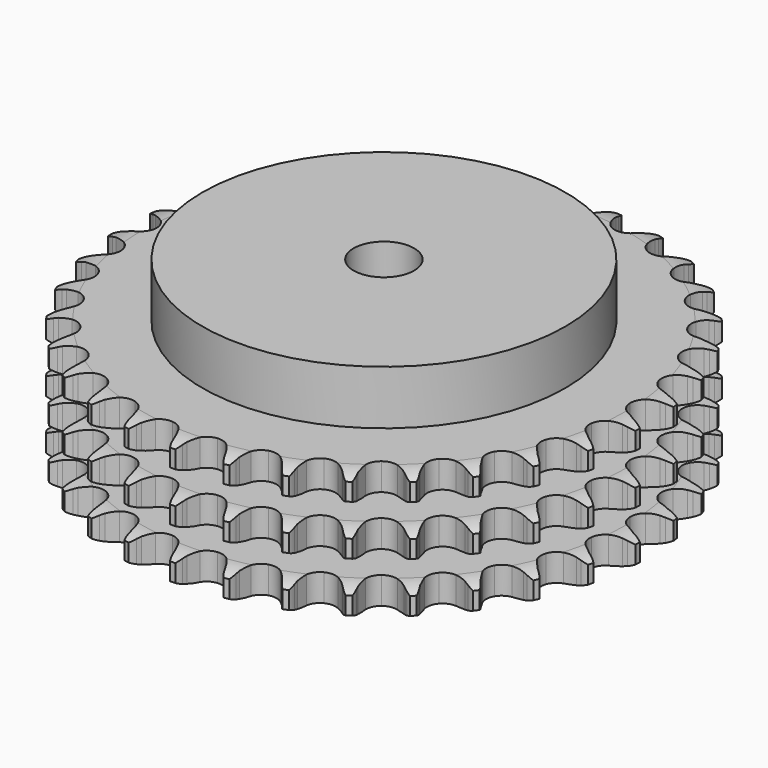
from build123d import *

# Parameters (mm, degrees)
PAD_DEPTH         = 42.1
SKETCH001_R       = 60
PAD001_DEPTH      = 60
SKETCH002_R       = 10
POCKET_DEPTH      = 0.001
POCKET_DEPTH_BACK = 60.001


with BuildPart() as part:
    # Sprocket → Pad (new body)
    with BuildSketch(Plane.XY):
        with BuildLine():
            ThreePointArc((-8.411611, 88.090371), (-7.2457, 86.680093), (-6.418665, 85.047841))
            Line((-6.418665, 85.047841), (-5.923016, 83.723235))
            ThreePointArc((-5.923016, 83.723235), (-5.137952, 82.007787), (-4.117584, 80.420986))
            ThreePointArc((-4.117584, 80.420986), (-2.302319, 78.903923), (0, 78.35987))
            ThreePointArc((0, 78.35987), (2.302319, 78.903923), (4.117584, 80.420986))
            ThreePointArc((4.117584, 80.420986), (5.137952, 82.007787), (5.923016, 83.723235))
            Line((5.923016, 83.723235), (6.418665, 85.047841))
            ThreePointArc((6.418665, 85.047841), (7.2457, 86.680093), (8.411611, 88.090371))
            ThreePointArc((8.411611, 88.090371), (9.289555, 86.484928), (9.792738, 84.725656))
            Line((9.792738, 84.725656), (10.028747, 83.331185))
            ThreePointArc((10.028747, 83.331185), (10.474973, 81.498163), (11.176598, 79.746932))
            ThreePointArc((11.176598, 79.746932), (12.671952, 77.913743), (14.829703, 76.943806))
            ThreePointArc((14.829703, 76.943806), (17.193379, 77.042309), (19.262945, 78.188416))
            Line((19.262945, 78.188416), (21.660706, 81.089309))
            ThreePointArc((21.660706, 81.089309), (22.013306, 81.702571), (22.398081, 82.296175))
            ThreePointArc((22.398081, 82.296175), (23.519076, 83.742413), (24.930814, 84.906556))
            ThreePointArc((24.930814, 84.906556), (25.489061, 83.163973), (25.650206, 81.341265))
            Line((25.650206, 81.341265), (25.618045, 79.927329))
            ThreePointArc((25.618045, 79.927329), (25.709306, 78.042983), (26.066828, 76.190616))
            ThreePointArc((26.066828, 76.190616), (27.188226, 74.107557), (29.123422, 72.746791))
            ThreePointArc((29.123422, 72.746791), (31.463025, 72.396186), (33.712094, 73.129913))
            Line((33.712094, 73.129913), (36.615521, 75.524604))
            ThreePointArc((36.615521, 75.524604), (37.07781, 76.060054), (37.567972, 76.570111))
            ThreePointArc((37.567972, 76.570111), (38.942411, 77.778064), (40.548953, 78.653996))
            ThreePointArc((40.548953, 78.653996), (40.767326, 76.837255), (40.580609, 75.016989))
            Line((40.580609, 75.016989), (40.28144, 73.634692))
            ThreePointArc((40.28144, 73.634692), (40.014437, 71.767127), (40.014936, 69.880572))
            ThreePointArc((40.014936, 69.880572), (40.721847, 67.622932), (42.364544, 65.920518))
            ThreePointArc((42.364544, 65.920518), (44.595515, 65.133476), (46.942799, 65.428305))
            Line((46.942799, 65.428305), (50.246957, 67.230243))
            ThreePointArc((50.246957, 67.230243), (50.802226, 67.668528), (51.380059, 68.076604))
            ThreePointArc((51.380059, 68.076604), (52.958267, 69.002613), (54.701547, 69.558676))
            ThreePointArc((54.701547, 69.558676), (54.572153, 67.733439), (54.044323, 65.981404))
            Line((54.044323, 65.981404), (53.488959, 64.680704))
            ThreePointArc((53.488959, 64.680704), (52.873342, 62.897419), (52.516799, 61.044863))
            ThreePointArc((52.516799, 61.044863), (52.783674, 58.694237), (54.074502, 56.711705))
            ThreePointArc((54.074502, 56.711705), (56.116208, 55.516673), (58.47687, 55.361947))
            Line((58.47687, 55.361947), (62.062336, 56.506006))
            ThreePointArc((62.062336, 56.506006), (62.690516, 56.831285), (63.335137, 57.122631))
            ThreePointArc((63.335137, 57.122631), (65.060072, 57.733228), (66.877085, 57.949324))
            ThreePointArc((66.877085, 57.949324), (66.404601, 56.18156), (65.554735, 54.561078))
            Line((65.554735, 54.561078), (64.763247, 53.388988))
            ThreePointArc((64.763247, 53.388988), (63.821266, 51.754435), (63.120568, 50.002833))
            ThreePointArc((63.120568, 50.002833), (62.937762, 47.644179), (63.830066, 45.453184))
            ThreePointArc((63.830066, 45.453184), (65.608714, 43.893352), (67.897434, 43.294664))
            Line((67.897434, 43.294664), (71.63462, 43.739494))
            ThreePointArc((71.63462, 43.739494), (72.313008, 43.940012), (73.001117, 44.104097))
            ThreePointArc((73.001117, 44.104097), (74.810437, 44.377214), (76.635511, 44.245533))
            ThreePointArc((76.635511, 44.245533), (75.837013, 42.599132), (74.695827, 41.168773))
            Line((74.695827, 41.168773), (73.696823, 40.167654))
            ThreePointArc((73.696823, 40.167654), (72.462524, 38.740911), (71.442996, 37.153571))
            ThreePointArc((71.442996, 37.153571), (70.817115, 34.872137), (71.278645, 32.551867))
            ThreePointArc((71.278645, 32.551867), (72.729951, 30.683611), (74.864008, 29.662599))
            Line((74.864008, 29.662599), (78.617843, 29.392124))
            ThreePointArc((78.617843, 29.392124), (79.32192, 29.460632), (80.028647, 29.491527))
            ThreePointArc((80.028647, 29.491527), (81.856958, 29.417292), (83.624129, 28.942593))
            ThreePointArc((83.624129, 28.942593), (82.528479, 27.477061), (81.137218, 26.288522))
            Line((81.137218, 26.288522), (79.966804, 25.494556))
            ThreePointArc((79.966804, 25.494556), (78.484798, 24.32719), (77.183287, 22.961482))
            ThreePointArc((77.183287, 22.961482), (76.136953, 20.839725), (76.151029, 18.47404))
            ThreePointArc((76.151029, 18.47404), (77.222537, 16.364884), (79.124802, 14.95845))
            Line((79.124802, 14.95845), (82.759612, 13.982445))
            ThreePointArc((82.759612, 13.982445), (83.463931, 13.916467), (84.163733, 13.813055))
            ThreePointArc((84.163733, 13.813055), (85.944955, 13.394152), (87.590354, 12.593592))
            ThreePointArc((87.590354, 12.593592), (86.23715, 11.361898), (84.646098, 10.458134))
            Line((84.646098, 10.458134), (83.346576, 9.900019))
            ThreePointArc((83.346576, 9.900019), (81.670426, 9.03422), (80.133974, 7.939505))
            ThreePointArc((80.133974, 7.939505), (78.705003, 6.054111), (78.271115, 3.728513))
            ThreePointArc((78.271115, 3.728513), (78.9241, 1.454688), (80.525819, -0.286335))
            Line((80.525819, -0.286335), (83.910233, -1.932596))
            ThreePointArc((83.910233, -1.932596), (84.589338, -2.130674), (85.256923, -2.364656))
            ThreePointArc((85.256923, -2.364656), (86.926678, -3.113088), (88.390835, -4.210574))
            ThreePointArc((88.390835, -4.210574), (86.828985, -5.163915), (85.095648, -5.750237))
            Line((85.095648, -5.750237), (83.713986, -6.05233))
            ThreePointArc((83.713986, -6.05233), (81.904273, -6.58527), (80.188409, -7.369427))
            ThreePointArc((80.188409, -7.369427), (78.428449, -8.950314), (77.56228, -11.151772))
            ThreePointArc((77.56228, -11.151772), (77.77314, -13.508084), (79.016423, -15.520772))
            Line((79.016423, -15.520772), (82.02812, -17.777787))
            ThreePointArc((82.02812, -17.777787), (82.657465, -18.100807), (83.268705, -18.456902))
            ThreePointArc((83.268705, -18.456902), (84.766644, -19.507812), (85.996641, -20.862559))
            ThreePointArc((85.996641, -20.862559), (84.282595, -21.503089), (82.469619, -21.75078))
            Line((82.469619, -21.75078), (81.055754, -21.785933))
            ThreePointArc((81.055754, -21.785933), (79.177885, -21.966751), (77.344627, -22.412008))
            ThreePointArc((77.344627, -22.412008), (75.317286, -23.631252), (74.050142, -25.629003))
            ThreePointArc((74.050142, -25.629003), (73.811257, -27.982639), (74.651168, -30.194248))
            Line((74.651168, -30.194248), (77.181297, -32.980443))
            ThreePointArc((77.181297, -32.980443), (77.738137, -33.41673), (78.270939, -33.882068))
            ThreePointArc((78.270939, -33.882068), (79.542923, -35.197474), (80.494304, -36.760517))
            ThreePointArc((80.494304, -36.760517), (78.690012, -37.065087), (76.862923, -36.965193))
            Line((76.862923, -36.965193), (75.467956, -36.732135))
            ThreePointArc((75.467956, -36.732135), (73.589803, -36.554296), (71.705409, -36.644561))
            ThreePointArc((71.705409, -36.644561), (69.483961, -37.458095), (67.861638, -39.179935))
            ThreePointArc((67.861638, -39.179935), (67.181642, -41.445828), (67.587825, -43.776425))
            Line((67.587825, -43.776425), (69.54494, -46.9911))
            ThreePointArc((69.54494, -46.9911), (70.00915, -47.524886), (70.444258, -48.082648))
            ThreePointArc((70.444258, -48.082648), (71.444313, -49.615006), (72.082694, -51.329854))
            ThreePointArc((72.082694, -51.329854), (70.253368, -51.287455), (68.478201, -50.843588))
            Line((68.478201, -50.843588), (67.15255, -50.350742))
            ThreePointArc((67.15255, -50.350742), (65.341993, -49.820674), (63.47457, -49.552684))
            ThreePointArc((63.47457, -49.552684), (61.139304, -49.931104), (59.220439, -51.314802))
            ThreePointArc((59.220439, -51.314802), (58.123908, -53.411057), (58.081682, -55.776408))
            Line((58.081682, -55.776408), (59.395048, -59.303376))
            ThreePointArc((59.395048, -59.303376), (59.74985, -59.915368), (60.071538, -60.545395))
            ThreePointArc((60.071538, -60.545395), (60.763519, -62.239324), (61.065827, -64.043996))
            ThreePointArc((61.065827, -64.043996), (59.277583, -63.656161), (57.618499, -62.884363))
            Line((57.618499, -62.884363), (56.410075, -62.149542))
            ThreePointArc((56.410075, -62.149542), (54.732553, -61.286403), (52.949595, -60.669843))
            ThreePointArc((52.949595, -60.669843), (50.584914, -60.599473), (48.438858, -61.595019))
            ThreePointArc((48.438858, -61.595019), (46.965424, -63.445872), (46.476316, -65.760486))
            Line((46.476316, -65.760486), (47.098465, -69.472274))
            ThreePointArc((47.098465, -69.472274), (47.331034, -70.140352), (47.527675, -70.819874))
            ThreePointArc((47.527675, -70.819874), (47.886574, -72.61415), (47.841882, -74.443421))
            ThreePointArc((47.841882, -74.443421), (46.159352, -73.724168), (44.676314, -72.652333))
            Line((44.676314, -72.652333), (43.628794, -71.702096))
            ThreePointArc((43.628794, -71.702096), (42.144937, -70.537082), (40.510883, -69.594237))
            ThreePointArc((40.510883, -69.594237), (38.202253, -69.07762), (35.906571, -69.649031))
            ThreePointArc((35.906571, -69.649031), (34.109487, -71.187587), (33.191174, -73.367809))
            Line((33.191174, -73.367809), (33.09962, -77.130262))
            ThreePointArc((33.09962, -77.130262), (33.201552, -77.830282), (33.266039, -78.534738))
            ThreePointArc((33.266039, -78.534738), (33.278883, -80.364511), (32.888807, -82.152268))
            ThreePointArc((32.888807, -82.152268), (31.372802, -81.127591), (30.11941, -79.794459))
            Line((30.11941, -79.794459), (29.270654, -78.663149))
            ThreePointArc((29.270654, -78.663149), (28.034092, -77.238367), (26.608003, -76.003313))
            ThreePointArc((26.608003, -76.003313), (24.438863, -75.059121), (22.076527, -75.185745))
            ThreePointArc((22.076527, -75.185745), (20.020745, -76.356398), (18.706417, -78.323428))
            Line((18.706417, -78.323428), (17.904469, -82.000562))
            ThreePointArc((17.904469, -82.000562), (17.872079, -82.707222), (17.802081, -83.411153))
            ThreePointArc((17.802081, -83.411153), (17.468406, -85.21029), (16.747044, -86.891917))
            ThreePointArc((16.747044, -86.891917), (15.452357, -85.598851), (14.473912, -84.052605))
            Line((14.473912, -84.052605), (13.854596, -82.781111))
            ThreePointArc((13.854596, -82.781111), (12.910023, -81.148056), (11.74344, -79.665432))
            ThreePointArc((11.74344, -79.665432), (9.792189, -78.32779), (7.448579, -78.005051))
            ThreePointArc((7.448579, -78.005051), (5.208401, -78.765489), (3.545562, -80.448235))
            Line((3.545562, -80.448235), (2.062203, -83.907148))
            ThreePointArc((2.062203, -83.907148), (1.896662, -84.594908), (1.69471, -85.272871))
            ThreePointArc((1.69471, -85.272871), (1.026576, -86.976346), (0, -88.491065))
            ThreePointArc((0, -88.491065), (-1.026576, -86.976346), (-1.69471, -85.272871))
            Line((-1.69471, -85.272871), (-2.062203, -83.907148))
            ThreePointArc((-2.062203, -83.907148), (-2.680649, -82.124843), (-3.545562, -80.448235))
            ThreePointArc((-3.545562, -80.448235), (-5.208401, -78.765489), (-7.448579, -78.005051))
            ThreePointArc((-7.448579, -78.005051), (-9.792189, -78.32779), (-11.74344, -79.665432))
            Line((-11.74344, -79.665432), (-13.854596, -82.781111))
            ThreePointArc((-13.854596, -82.781111), (-14.147305, -83.425114), (-14.473912, -84.052605))
            ThreePointArc((-14.473912, -84.052605), (-15.452357, -85.598851), (-16.747044, -86.891917))
            ThreePointArc((-16.747044, -86.891917), (-17.468406, -85.21029), (-17.802081, -83.411153))
            Line((-17.802081, -83.411153), (-17.904469, -82.000562))
            ThreePointArc((-17.904469, -82.000562), (-18.174435, -80.133424), (-18.706417, -78.323428))
            ThreePointArc((-18.706417, -78.323428), (-20.020745, -76.356398), (-22.076527, -75.185745))
            ThreePointArc((-22.076527, -75.185745), (-24.438863, -75.059121), (-26.608003, -76.003313))
            Line((-26.608003, -76.003313), (-29.270654, -78.663149))
            ThreePointArc((-29.270654, -78.663149), (-29.679951, -79.240118), (-30.11941, -79.794459))
            ThreePointArc((-30.11941, -79.794459), (-31.372802, -81.127591), (-32.888807, -82.152268))
            ThreePointArc((-32.888807, -82.152268), (-33.278883, -80.364511), (-33.266039, -78.534738))
            Line((-33.266039, -78.534738), (-33.09962, -77.130262))
            ThreePointArc((-33.09962, -77.130262), (-33.011349, -75.245774), (-33.191174, -73.367809))
            ThreePointArc((-33.191174, -73.367809), (-34.109487, -71.187587), (-35.906571, -69.649031))
            ThreePointArc((-35.906571, -69.649031), (-38.202253, -69.07762), (-40.510883, -69.594237))
            Line((-40.510883, -69.594237), (-43.628794, -71.702096))
            ThreePointArc((-43.628794, -71.702096), (-44.139887, -72.191178), (-44.676314, -72.652333))
            ThreePointArc((-44.676314, -72.652333), (-46.159352, -73.724168), (-47.841882, -74.443421))
            ThreePointArc((-47.841882, -74.443421), (-47.886574, -72.61415), (-47.527675, -70.819874))
            Line((-47.527675, -70.819874), (-47.098465, -69.472274))
            ThreePointArc((-47.098465, -69.472274), (-46.655147, -67.638546), (-46.476316, -65.760486))
            ThreePointArc((-46.476316, -65.760486), (-46.965424, -63.445872), (-48.438858, -61.595019))
            ThreePointArc((-48.438858, -61.595019), (-50.584914, -60.599473), (-52.949595, -60.669843))
            Line((-52.949595, -60.669843), (-56.410075, -62.149542))
            ThreePointArc((-56.410075, -62.149542), (-57.004492, -62.533061), (-57.618499, -62.884363))
            ThreePointArc((-57.618499, -62.884363), (-59.277583, -63.656161), (-61.065827, -64.043996))
            ThreePointArc((-61.065827, -64.043996), (-60.763519, -62.239324), (-60.071538, -60.545395))
            Line((-60.071538, -60.545395), (-59.395048, -59.303376))
            ThreePointArc((-59.395048, -59.303376), (-58.612707, -57.586684), (-58.081682, -55.776408))
            ThreePointArc((-58.081682, -55.776408), (-58.123908, -53.411057), (-59.220439, -51.314802))
            ThreePointArc((-59.220439, -51.314802), (-61.139304, -49.931104), (-63.47457, -49.552684))
            Line((-63.47457, -49.552684), (-67.15255, -50.350742))
            ThreePointArc((-67.15255, -50.350742), (-67.808806, -50.614836), (-68.478201, -50.843588))
            ThreePointArc((-68.478201, -50.843588), (-70.253368, -51.287455), (-72.082694, -51.329854))
            ThreePointArc((-72.082694, -51.329854), (-71.444313, -49.615006), (-70.444258, -48.082648))
            Line((-70.444258, -48.082648), (-69.54494, -46.9911))
            ThreePointArc((-69.54494, -46.9911), (-68.451851, -45.45349), (-67.587825, -43.776425))
            ThreePointArc((-67.587825, -43.776425), (-67.181642, -41.445828), (-67.861638, -39.179935))
            ThreePointArc((-67.861638, -39.179935), (-69.483961, -37.458095), (-71.705409, -36.644561))
            Line((-71.705409, -36.644561), (-75.467956, -36.732135))
            ThreePointArc((-75.467956, -36.732135), (-76.162333, -36.867259), (-76.862923, -36.965193))
            ThreePointArc((-76.862923, -36.965193), (-78.690012, -37.065087), (-80.494304, -36.760517))
            ThreePointArc((-80.494304, -36.760517), (-79.542923, -35.197474), (-78.270939, -33.882068))
            Line((-78.270939, -33.882068), (-77.181297, -32.980443))
            ThreePointArc((-77.181297, -32.980443), (-75.816966, -31.677489), (-74.651168, -30.194248))
            ThreePointArc((-74.651168, -30.194248), (-73.811257, -27.982639), (-74.050142, -25.629003))
            ThreePointArc((-74.050142, -25.629003), (-75.317286, -23.631252), (-77.344627, -22.412008))
            Line((-77.344627, -22.412008), (-81.055754, -21.785933))
            ThreePointArc((-81.055754, -21.785933), (-81.763155, -21.787204), (-82.469619, -21.75078))
            ThreePointArc((-82.469619, -21.75078), (-84.282595, -21.503089), (-85.996641, -20.862559))
            ThreePointArc((-85.996641, -20.862559), (-84.766644, -19.507812), (-83.268705, -18.456902))
            Line((-83.268705, -18.456902), (-82.02812, -17.777787))
            ThreePointArc((-82.02812, -17.777787), (-80.441859, -16.75658), (-79.016423, -15.520772))
            ThreePointArc((-79.016423, -15.520772), (-77.77314, -13.508084), (-77.56228, -11.151772))
            ThreePointArc((-77.56228, -11.151772), (-78.428449, -8.950314), (-80.188409, -7.369427))
            Line((-80.188409, -7.369427), (-83.713986, -6.05233))
            ThreePointArc((-83.713986, -6.05233), (-84.408844, -5.919702), (-85.095648, -5.750237))
            ThreePointArc((-85.095648, -5.750237), (-86.828985, -5.163915), (-88.390835, -4.210574))
            ThreePointArc((-88.390835, -4.210574), (-86.926678, -3.113088), (-85.256923, -2.364656))
            Line((-85.256923, -2.364656), (-83.910233, -1.932596))
            ThreePointArc((-83.910233, -1.932596), (-82.159373, -1.230045), (-80.525819, -0.286335))
            ThreePointArc((-80.525819, -0.286335), (-78.9241, 1.454688), (-78.271115, 3.728513))
            ThreePointArc((-78.271115, 3.728513), (-78.705003, 6.054111), (-80.133974, 7.939505))
            Line((-80.133974, 7.939505), (-83.346576, 9.900019))
            ThreePointArc((-83.346576, 9.900019), (-84.003777, 10.161754), (-84.646098, 10.458134))
            ThreePointArc((-84.646098, 10.458134), (-86.23715, 11.361898), (-87.590354, 12.593592))
            ThreePointArc((-87.590354, 12.593592), (-85.944955, 13.394152), (-84.163733, 13.813055))
            Line((-84.163733, 13.813055), (-82.759612, 13.982445))
            ThreePointArc((-82.759612, 13.982445), (-80.907434, 14.340947), (-79.124802, 14.95845))
            ThreePointArc((-79.124802, 14.95845), (-77.222537, 16.364884), (-76.151029, 18.47404))
            ThreePointArc((-76.151029, 18.47404), (-76.136953, 20.839725), (-77.183287, 22.961482))
            Line((-77.183287, 22.961482), (-79.966804, 25.494556))
            ThreePointArc((-79.966804, 25.494556), (-80.562595, 25.875937), (-81.137218, 26.288522))
            ThreePointArc((-81.137218, 26.288522), (-82.528479, 27.477061), (-83.624129, 28.942593))
            ThreePointArc((-83.624129, 28.942593), (-81.856958, 29.417292), (-80.028647, 29.491527))
            Line((-80.028647, 29.491527), (-78.617843, 29.392124))
            ThreePointArc((-78.617843, 29.392124), (-76.731289, 29.39362), (-74.864008, 29.662599))
            ThreePointArc((-74.864008, 29.662599), (-72.729951, 30.683611), (-71.278645, 32.551867))
            ThreePointArc((-71.278645, 32.551867), (-70.817115, 34.872137), (-71.442996, 37.153571))
            Line((-71.442996, 37.153571), (-73.696823, 40.167654))
            ThreePointArc((-73.696823, 40.167654), (-74.209671, 40.654897), (-74.695827, 41.168773))
            ThreePointArc((-74.695827, 41.168773), (-75.837013, 42.599132), (-76.635511, 44.245533))
            ThreePointArc((-76.635511, 44.245533), (-74.810437, 44.377214), (-73.001117, 44.104097))
            Line((-73.001117, 44.104097), (-71.63462, 43.739494))
            ThreePointArc((-71.63462, 43.739494), (-69.781876, 43.383931), (-67.897434, 43.294664))
            ThreePointArc((-67.897434, 43.294664), (-65.608714, 43.893352), (-63.830066, 45.453184))
            ThreePointArc((-63.830066, 45.453184), (-62.937762, 47.644179), (-63.120568, 50.002833))
            Line((-63.120568, 50.002833), (-64.763247, 53.388988))
            ThreePointArc((-64.763247, 53.388988), (-65.174615, 53.964482), (-65.554735, 54.561078))
            ThreePointArc((-65.554735, 54.561078), (-66.404601, 56.18156), (-66.877085, 57.949324))
            ThreePointArc((-66.877085, 57.949324), (-65.060072, 57.733228), (-63.335137, 57.122631))
            Line((-63.335137, 57.122631), (-62.062336, 56.506006))
            ThreePointArc((-62.062336, 56.506006), (-60.310363, 55.806234), (-58.47687, 55.361947))
            ThreePointArc((-58.47687, 55.361947), (-56.116208, 55.516673), (-54.074502, 56.711705))
            ThreePointArc((-54.074502, 56.711705), (-52.783674, 58.694237), (-52.516799, 61.044863))
            Line((-52.516799, 61.044863), (-53.488959, 64.680704))
            ThreePointArc((-53.488959, 64.680704), (-53.78398, 65.323651), (-54.044323, 65.981404))
            ThreePointArc((-54.044323, 65.981404), (-54.572153, 67.733439), (-54.701547, 69.558676))
            ThreePointArc((-54.701547, 69.558676), (-52.958267, 69.002613), (-51.380059, 68.076604))
            Line((-51.380059, 68.076604), (-50.246957, 67.230243))
            ThreePointArc((-50.246957, 67.230243), (-48.659077, 66.211554), (-46.942799, 65.428305))
            ThreePointArc((-46.942799, 65.428305), (-44.595515, 65.133476), (-42.364544, 65.920518))
            ThreePointArc((-42.364544, 65.920518), (-40.721847, 67.622932), (-40.014936, 69.880572))
            Line((-40.014936, 69.880572), (-40.28144, 73.634692))
            ThreePointArc((-40.28144, 73.634692), (-40.449451, 74.321852), (-40.580609, 75.016989))
            ThreePointArc((-40.580609, 75.016989), (-40.767326, 76.837255), (-40.548953, 78.653996))
            ThreePointArc((-40.548953, 78.653996), (-38.942411, 77.778064), (-37.567972, 76.570111))
            Line((-37.567972, 76.570111), (-36.615521, 75.524604))
            ThreePointArc((-36.615521, 75.524604), (-35.249125, 74.223816), (-33.712094, 73.129913))
            ThreePointArc((-33.712094, 73.129913), (-31.463025, 72.396186), (-29.123422, 72.746791))
            ThreePointArc((-29.123422, 72.746791), (-27.188226, 74.107557), (-26.066828, 76.190616))
            Line((-26.066828, 76.190616), (-25.618045, 79.927329))
            ThreePointArc((-25.618045, 79.927329), (-25.652974, 80.633869), (-25.650206, 81.341265))
            ThreePointArc((-25.650206, 81.341265), (-25.489061, 83.163973), (-24.930814, 84.906556))
            ThreePointArc((-24.930814, 84.906556), (-23.519076, 83.742413), (-22.398081, 82.296175))
            Line((-22.398081, 82.296175), (-21.660706, 81.089309))
            ThreePointArc((-21.660706, 81.089309), (-20.565178, 79.553435), (-19.262945, 78.188416))
            ThreePointArc((-19.262945, 78.188416), (-17.193379, 77.042309), (-14.829703, 76.943806))
            ThreePointArc((-14.829703, 76.943806), (-12.671952, 77.913743), (-11.176598, 79.746932))
            Line((-11.176598, 79.746932), (-10.028747, 83.331185))
            ThreePointArc((-10.028747, 83.331185), (-9.929331, 84.031567), (-9.792738, 84.725656))
            ThreePointArc((-9.792738, 84.725656), (-9.289555, 86.484928), (-8.411611, 88.090371))
        make_face()
    extrude(amount=PAD_DEPTH)

    # Sketch → Groove (revolve, cut)
    with BuildSketch(Plane.XZ):
        with BuildLine():
            ThreePointArc((80.275762, 0), (83.85347, 0.405129), (87.25, 1.6))
            Line((87.25, 1.6), (87.25, 7.4))
            ThreePointArc((87.25, 7.4), (83.85347, 8.594871), (80.275762, 9))
            Line((60, 9), (80.275762, 9))
            Line((60, 9), (60, 16.55))
            Line((60, 16.55), (80.275762, 16.55))
            ThreePointArc((80.275762, 16.55), (83.85347, 16.955129), (87.25, 18.15))
            Line((87.25, 23.95), (87.25, 18.15))
            ThreePointArc((87.25, 23.95), (83.85347, 25.144871), (80.275762, 25.55))
            Line((60, 25.55), (80.275762, 25.55))
            Line((60, 33.1), (60, 25.55))
            Line((80.275762, 33.1), (60, 33.1))
            ThreePointArc((80.275762, 33.1), (83.85347, 33.505129), (87.25, 34.7))
            Line((87.25, 34.7), (87.25, 40.5))
            ThreePointArc((87.25, 40.5), (83.85347, 41.694871), (80.275762, 42.1))
            Line((80.275762, 42.1), (97.25, 42.1))
            Line((97.25, 42.1), (97.25, 0))
            Line((80.275762, 0), (97.25, 0))
        make_face()
    revolve(axis=Axis((0, 0, 0), (0, 0, 1)), mode=Mode.SUBTRACT)

    # Sketch001 → Pad001 (join)
    with BuildSketch(Plane.XY):
        Circle(SKETCH001_R)
    extrude(amount=PAD001_DEPTH)

    # Sketch002 → Pocket (cut, two sides)
    with BuildSketch(Plane.XY) as pocket_sk:
        Circle(SKETCH002_R)
    extrude(amount=-POCKET_DEPTH, mode=Mode.SUBTRACT)
    extrude(pocket_sk.sketch, amount=POCKET_DEPTH_BACK, mode=Mode.SUBTRACT)


solid = part.part
